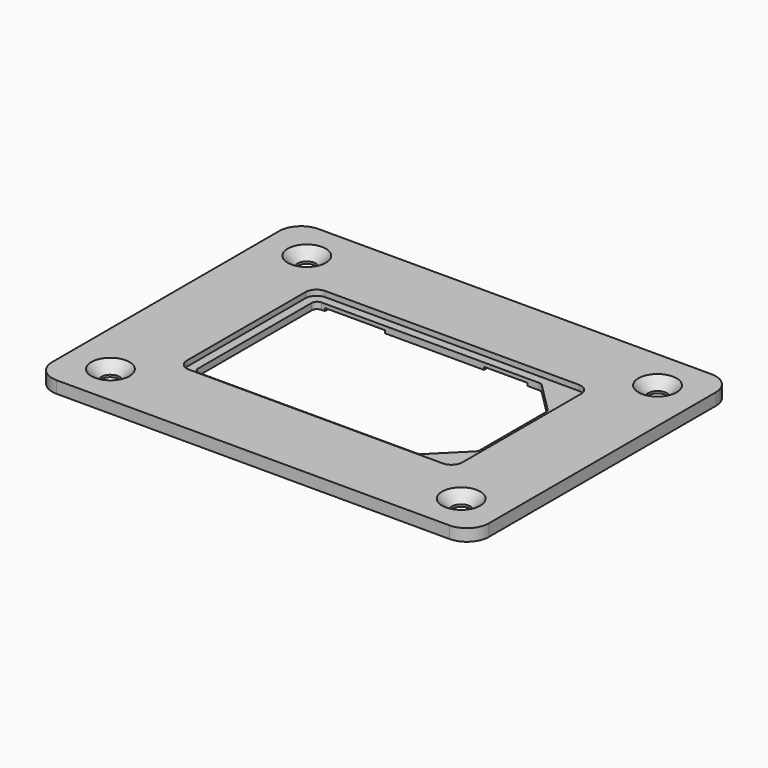
from build123d import *

# Parameters (mm, degrees)
SKETCH_W        = 80
SKETCH_H        = 60
PAD_DEPTH       = 2.2
POCKET_DEPTH    = 2.201
FILLET_R        = 4
SKETCH002_R     = 1.7
POCKET001_DEPTH = 2.201
SKETCH003_W     = 50.5
SKETCH003_H     = 31.2
POCKET002_DEPTH = 1
FILLET001_R     = 2
FILLET002_R     = 1
CHAMFER_SIZE    = 1.8
SKETCH004_W     = 11
SKETCH004_H     = 1
SKETCH004_W_2   = 8
POCKET003_DEPTH = 0.5


with BuildPart() as part:
    # Sketch → Pad (new body)
    with BuildSketch(Plane.XY):
        Rectangle(SKETCH_W, SKETCH_H)
    extrude(amount=PAD_DEPTH)

    # Sketch001 → Pocket (cut, through all)
    with BuildSketch(Plane.XY.offset(2.2)):
        Polygon((-23.65, 14), (17.65, 14), (23.65, 8), (23.65, -8), (17.65, -14), (-23.65, -14), align=None)
    extrude(amount=-POCKET_DEPTH, mode=Mode.SUBTRACT)

    # Fillet
    fillet_edges = [part.edges().sort_by_distance(p)[0] for p in [
        (-40, -30, 1.1),
        (-40, 30, 1.1),
        (40, -30, 1.1),
        (40, 30, 1.1),
    ]]
    fillet(fillet_edges, radius=FILLET_R)

    # Sketch002 → Pocket001 (cut, through all)
    with BuildSketch(Plane.XY.offset(2.2)):
        with Locations((-32.135281, 22.485281)):
            Circle(SKETCH002_R)
        with Locations((32.135281, 22.485281)):
            Circle(SKETCH002_R)
        with Locations((32.135281, -22.485281)):
            Circle(SKETCH002_R)
        with Locations((-32.135281, -22.485281)):
            Circle(SKETCH002_R)
    extrude(amount=-POCKET001_DEPTH, mode=Mode.SUBTRACT)

    # Sketch003 → Pocket002 (cut)
    with BuildSketch(Plane.XY.offset(2.2)):
        Rectangle(SKETCH003_W, SKETCH003_H)
    extrude(amount=-POCKET002_DEPTH, mode=Mode.SUBTRACT)

    # Fillet001
    fillet001_edges = [part.edges().sort_by_distance(p)[0] for p in [
        (-25.25, -15.6, 1.7),
        (25.25, -15.6, 1.7),
        (-25.25, 15.6, 1.7),
        (25.25, 15.6, 1.7),
    ]]
    fillet(fillet001_edges, radius=FILLET001_R)

    # Fillet002
    fillet002_edges = [part.edges().sort_by_distance(p)[0] for p in [
        (17.65, -14, 0.6),
        (-23.65, -14, 0.6),
        (23.65, -8, 0.6),
        (23.65, 8, 0.6),
        (-23.65, 14, 0.6),
        (17.65, 14, 0.6),
    ]]
    fillet(fillet002_edges, radius=FILLET002_R)

    # Chamfer
    chamfer_edges = [part.edges().sort_by_distance(p)[0] for p in [
        (-33.835281, 22.485281, 2.2),
        (30.435281, 22.485281, 2.2),
        (30.435281, -22.485281, 2.2),
        (-33.835281, -22.485281, 2.2),
    ]]
    chamfer(chamfer_edges, length=CHAMFER_SIZE)

    # Sketch004 → Pocket003 (cut)
    with BuildSketch(Plane(origin=(0, 0, 0), x_dir=(1, 0, 0), z_dir=(0, 0, -1))):
        with Locations((-16.51054, 14.48414)):
            Rectangle(SKETCH004_W, SKETCH004_H)
        with Locations((-16.51054, -14.479152)):
            Rectangle(SKETCH004_W, SKETCH004_H)
        with Locations((11.1315, 14.48414)):
            Rectangle(SKETCH004_W_2, SKETCH004_H)
        with Locations((11.1315, -14.479152)):
            Rectangle(SKETCH004_W_2, SKETCH004_H)
    extrude(amount=-POCKET003_DEPTH, mode=Mode.SUBTRACT)


solid = part.part
